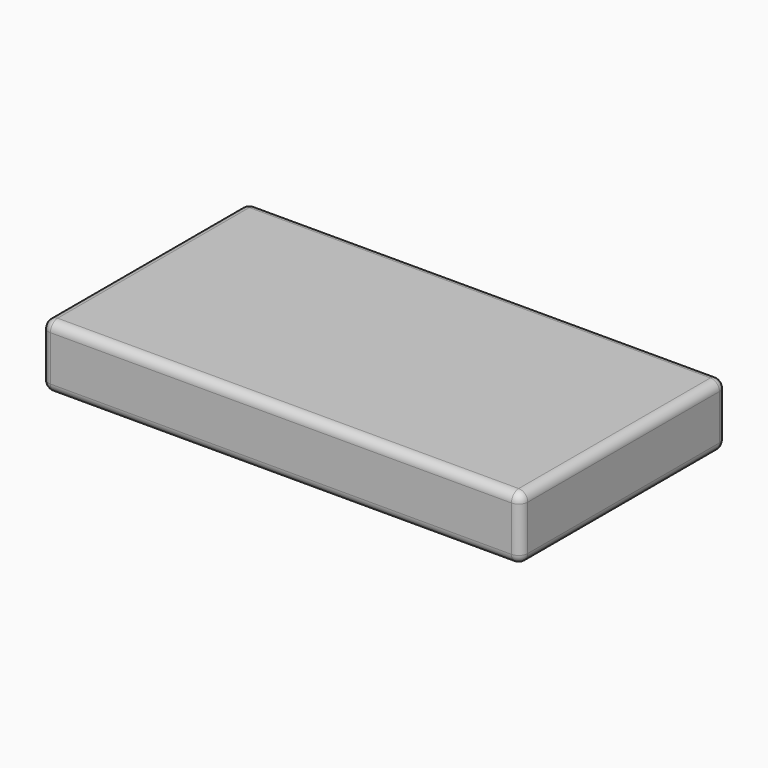
from build123d import *

# Parameters (mm, degrees)
SKETCH_W    = 1346.2
SKETCH_H    = 723.9
PAD_DEPTH   = 177.8
FILLET_R    = 25.4
FILLET001_R = 25.4


with BuildPart() as part:
    # Sketch → Pad (new body)
    with BuildSketch(Plane.XY):
        Rectangle(SKETCH_W, SKETCH_H)
    extrude(amount=PAD_DEPTH)

    # Fillet
    fillet_edges = [part.edges().sort_by_distance(p)[0] for p in [
        (673.1, -361.95, 88.9),
        (-673.1, -361.95, 88.9),
        (673.1, 361.95, 88.9),
        (-673.1, 361.95, 88.9),
    ]]
    fillet(fillet_edges, radius=FILLET_R)

    # Fillet001
    fillet001_edges = [part.edges().sort_by_distance(p)[0] for p in [
        (0, 361.95, 0),
        (673.1, 0, 0),
        (0, -361.95, 0),
        (-673.1, 0, 0),
        (673.1, 0, 177.8),
        (0, -361.95, 177.8),
        (0, 361.95, 177.8),
        (-673.1, 0, 177.8),
    ]]
    fillet(fillet001_edges, radius=FILLET001_R)


solid = part.part
